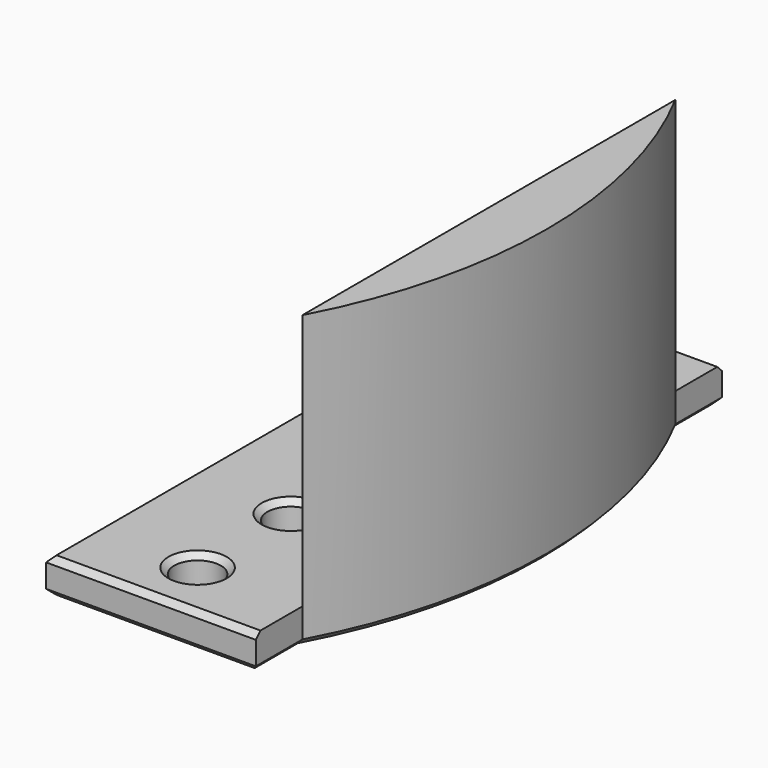
from build123d import *

# Parameters (mm, degrees)
SKETCH_W     = 18
SKETCH_H     = 50
PAD_DEPTH    = 3
SKETCH002_R  = 2
POCKET_DEPTH = 5
PAD001_DEPTH = 25
CHAMFER_SIZE = 0.5


with BuildPart() as part:
    # Sketch → Pad (new body)
    with BuildSketch(Plane.XY):
        Rectangle(SKETCH_W, SKETCH_H)
    extrude(amount=PAD_DEPTH)

    # Sketch002 → Pocket (cut)
    with BuildSketch(Plane.XY.offset(3)):
        with Locations((0, 10)):
            Circle(SKETCH002_R)
        with Locations((0, -10)):
            Circle(SKETCH002_R)
        with Locations((0, 20)):
            Circle(SKETCH002_R)
        Circle(SKETCH002_R)
        with Locations((0, -20)):
            Circle(SKETCH002_R)
    extrude(amount=-POCKET_DEPTH, mode=Mode.SUBTRACT)

    # Sketch003 (on Face4 of Pocket) → Pad001 (join)
    with BuildSketch(Plane(origin=(0, 0, 0), x_dir=(1, 0, 0), z_dir=(0, 0, -1))):
        with BuildLine():
            ThreePointArc((9, -20), (14, 0), (9, 20))
            Line((9, 20), (9, -20))
        make_face()
    extrude(amount=-PAD001_DEPTH)

    # Chamfer
    chamfer_edges = [part.edges().sort_by_distance(p)[0] for p in [
        (0, 25, 0),
        (9, 22.5, 0),
        (14, 0, 0),
        (9, -22.5, 0),
        (0, -25, 0),
        (-9, 0, 0),
        (-2, -20, 0),
        (-2, 20, 0),
        (-2, -10, 0),
        (-2, 0, 0),
        (-2, 10, 0),
        (0, 25, 3),
        (-9, 0, 3),
        (0, -25, 3),
        (-2, 20, 3),
        (-2, 10, 3),
        (-2, 0, 3),
        (-2, -10, 3),
        (-2, -20, 3),
    ]]
    chamfer(chamfer_edges, length=CHAMFER_SIZE)


solid = part.part
